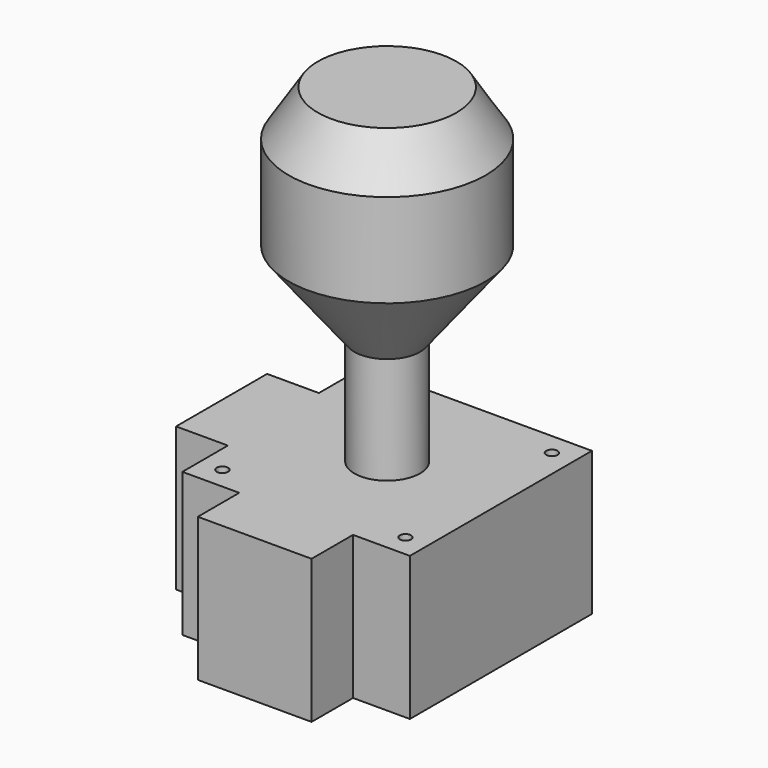
from build123d import *

# Parameters (mm, degrees)
SKETCH003_R  = 1
PAD001_DEPTH = 25.5


with BuildPart() as part:
    # Sketch003 → Pad001 (new body)
    with BuildSketch(Plane(origin=(0, 0, 0), x_dir=(0, 1, 0), z_dir=(0, 0, 1))):
        Polygon((20.2, 20.2), (20.2, -20.2), (-20.2, -20.2), (-20.2, -10.1), (-29.4, -10.1), (-29.4, 10.1), (-20.2, 10.1), (-20.2, 20.2), (-10.1, 20.2), (-10.1, 29.4), (10.1, 29.4), (10.1, 20.2), align=None)
        with Locations((-16.25, 16.25)):
            Circle(SKETCH003_R, mode=Mode.SUBTRACT)
        with Locations((16.25, 16.25)):
            Circle(SKETCH003_R, mode=Mode.SUBTRACT)
        with Locations((16.25, -16.25)):
            Circle(SKETCH003_R, mode=Mode.SUBTRACT)
        with Locations((-16.25, -16.25)):
            Circle(SKETCH003_R, mode=Mode.SUBTRACT)
    extrude(amount=PAD001_DEPTH)

    # Sketch004 → Revolution (revolve)
    with BuildSketch(Plane.XZ):
        Polygon((0, 84), (12.31, 84), (17.5, 75.9), (17.5, 59.3), (5.833333, 44.5), (5.833333, 12.75), (0, 12.75), align=None)
    revolve(axis=Axis((0, 0, 0), (0, 0, 1)))


solid = part.part
